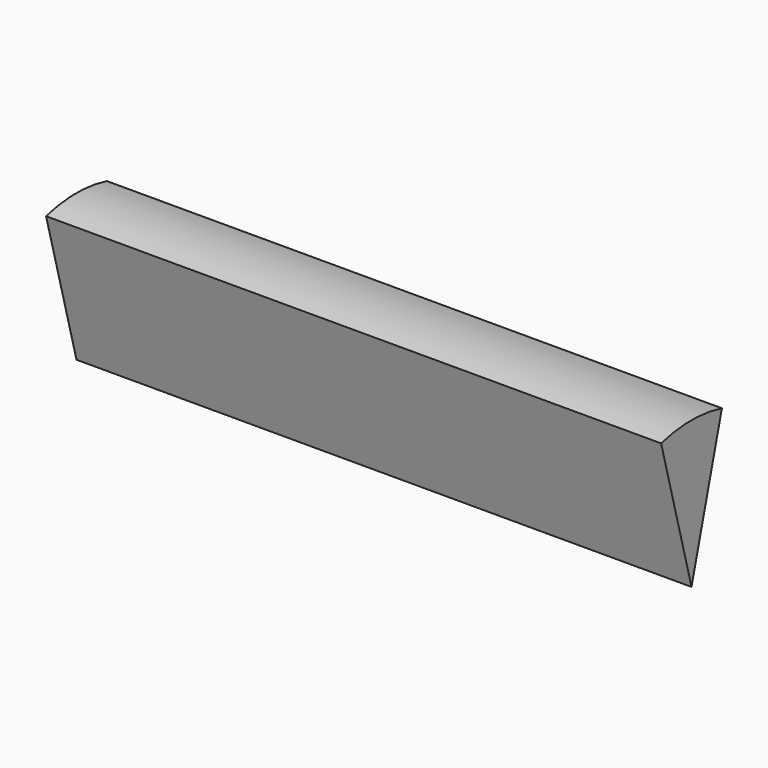
from build123d import *

# Parameters (mm, degrees)
F1_ANGLE = 30


with BuildPart() as f1:
    # F0 (on Front) → F1 (revolve, symmetric)
    with BuildSketch(Plane.XZ) as f1_sk:
        Polygon((42.02107, 20.066243), (0, 20.066243), (-42.02107, 20.066243), (-42.02107, 0), (42.02107, 0), align=None)
    revolve(axis=Axis((0, 0, 0), (1, 0, 0)), revolution_arc=F1_ANGLE / 2)
    revolve(f1_sk.sketch, axis=Axis((0, 0, 0), (-1, 0, 0)), revolution_arc=F1_ANGLE / 2)


solid = f1.part
